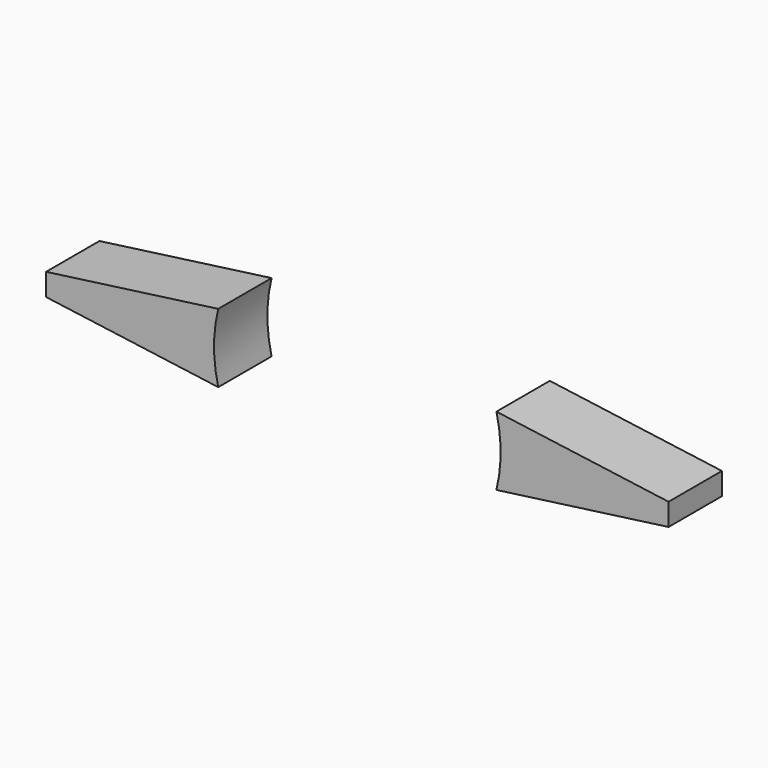
from build123d import *

# Parameters (mm, degrees)
F1_DEPTH = 19.05


with BuildPart() as f1:
    # F0 (on Front) → F1 (new body)
    with BuildSketch(Plane.XZ):
        with BuildLine():
            ThreePointArc((-39.729732, -9.848108), (-40.9321, 0), (-39.729732, 9.848108))
            Line((-39.729732, 9.848108), (-88.9, 3.175))
            Line((-88.9, 3.175), (-88.9, -3.175))
            Line((-88.9, -3.175), (-39.729732, -9.848108))
        make_face()
        with BuildLine():
            Line((39.729732, -9.848108), (88.9, -3.175))
            Line((88.9, -3.175), (88.9, 3.175))
            Line((88.9, 3.175), (39.729732, 9.848108))
            ThreePointArc((39.729732, 9.848108), (40.9321, 0), (39.729732, -9.848108))
        make_face()
    extrude(amount=F1_DEPTH)


solid = f1.part
